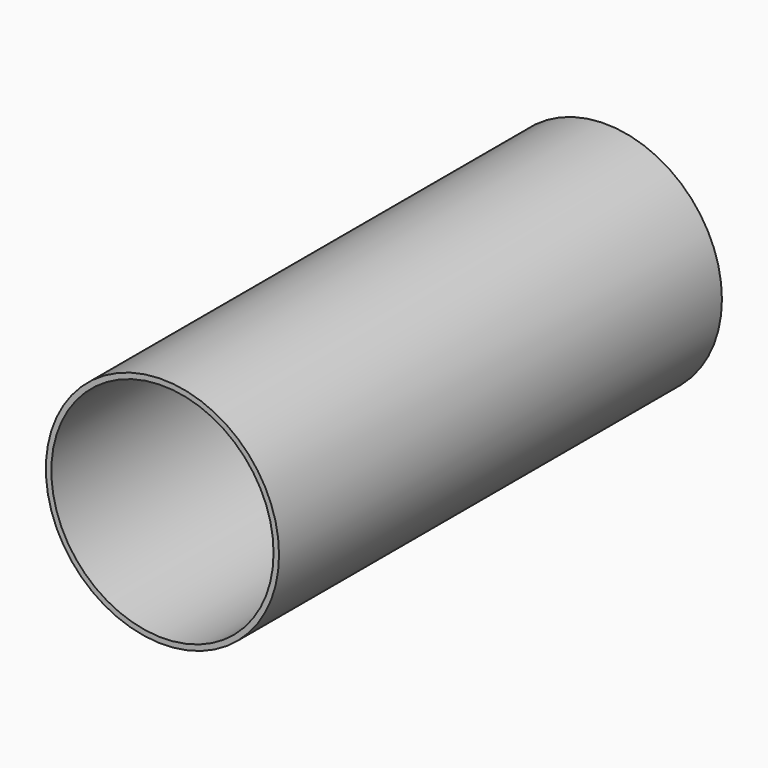
from build123d import *

# Parameters (mm, degrees)
F0_R       = 21.4519126411
F1_DEPTH   = 101.854
F2_R       = 20.4445940052
F1_FACE1_R = 21.4519126411
F3_DEPTH   = 94.996


with BuildPart() as f1:
    # F0 (on Front) → F1 (new body)
    with BuildSketch(Plane.XZ):
        Circle(F0_R)
    extrude(amount=F1_DEPTH)

    # F2 (on face) + F1_face1 (on face) → F3 (cut)
    with BuildSketch(Plane.XZ.offset(101.854)):
        Circle(F2_R)
    with BuildSketch(Plane(origin=(0, 0, 0), x_dir=(1, 0, 0), z_dir=(0, 1, 0))):
        Circle(F1_FACE1_R)
    extrude(amount=-F3_DEPTH, dir=(0, -1, 0), mode=Mode.SUBTRACT)


solid = f1.part
